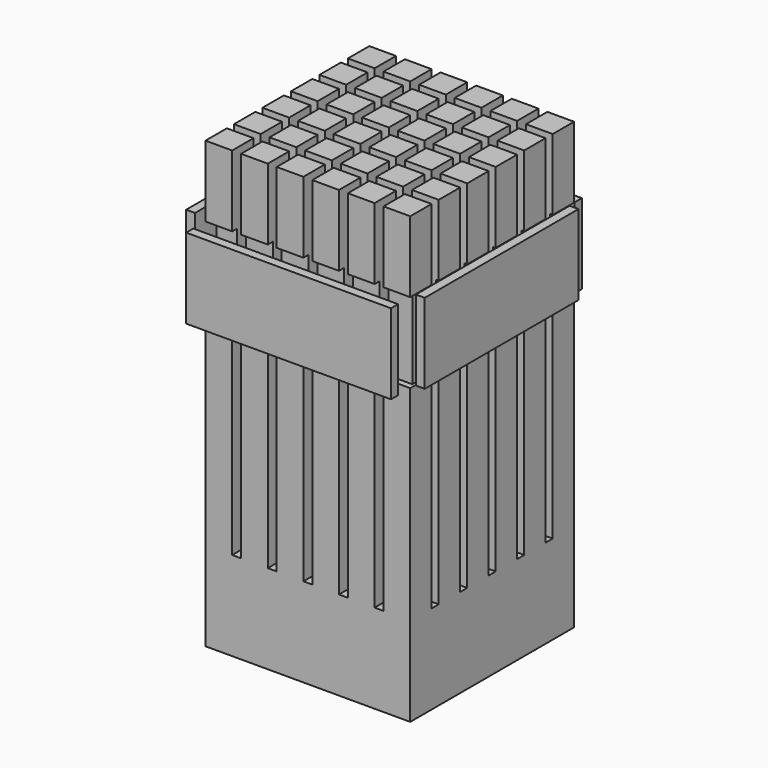
from build123d import *

# Parameters (mm, degrees)
F0_W      = 15
F0_H      = 15
F1_DEPTH  = 50
F2_DEPTH  = 250
F4_START  = 50
F3_W      = 115
F3_H      = 45
F4_DEPTH  = 5
F5_START  = -58
F5_DEPTH  = 7
F6_START  = 62
F6_DEPTH  = 5
F9_START  = -50
F8_W      = 108
F8_H      = 45
F9_DEPTH  = 5
F10_START = 60
F10_DEPTH = 5
F11_START = -62
F11_DEPTH = 5


with BuildPart() as f1:
    # F0 (on Top) → F1 (new body)
    with BuildSketch(Plane.XY):
        Polygon((-33.3552662283, 61.5146738781), (-38.3552662283, 61.5146738781), (-38.3552662283, 46.5146738781), (-53.3552662283, 46.5146738781), (-53.3552662283, 41.5146738781), (-38.3552662283, 41.5146738781), (-38.3552662283, 26.5146738781), (-53.3552662283, 26.5146738781), (-53.3552662283, 21.5146738781), (-38.3552662283, 21.5146738781), (-38.3552662283, 6.5146738781), (-53.3552662283, 6.5146738781), (-53.3552662283, 1.5146738781), (-38.3552662283, 1.5146738781), (-38.3552662283, -13.4853261219), (-53.3552662283, -13.4853261219), (-53.3552662283, -18.4853261219), (-38.3552662283, -18.4853261219), (-38.3552662283, -33.4853261219), (-53.3552662283, -33.4853261219), (-53.3552662283, -38.4853261219), (-38.3552662283, -38.4853261219), (-38.3552662283, -53.4853261219), (-33.3552662283, -53.4853261219), (-33.3552662283, -38.4853261219), (-18.3552662283, -38.4853261219), (-18.3552662283, -53.4853261219), (-13.3552662283, -53.4853261219), (-13.3552662283, -38.4853261219), (1.6447337717, -38.4853261219), (1.6447337717, -53.4853261219), (6.6447337717, -53.4853261219), (6.6447337717, -38.4853261219), (21.6447337717, -38.4853261219), (21.6447337717, -53.4853261219), (26.6447337717, -53.4853261219), (26.6447337717, -38.4853261219), (41.6447337717, -38.4853261219), (41.6447337717, -53.4853261219), (46.6447337717, -53.4853261219), (46.6447337717, -38.4853261219), (61.6447337717, -38.4853261219), (61.6447337717, -33.4853261219), (46.6447337717, -33.4853261219), (46.6447337717, -18.4853261219), (61.6447337717, -18.4853261219), (61.6447337717, -13.4853261219), (46.6447337717, -13.4853261219), (46.6447337717, 1.5146738781), (61.6447337717, 1.5146738781), (61.6447337717, 6.5146738781), (46.6447337717, 6.5146738781), (46.6447337717, 21.5146738781), (61.6447337717, 21.5146738781), (61.6447337717, 26.5146738781), (46.6447337717, 26.5146738781), (46.6447337717, 41.5146738781), (61.6447337717, 41.5146738781), (61.6447337717, 46.5146738781), (46.6447337717, 46.5146738781), (46.6447337717, 61.5146738781), (41.6447337717, 61.5146738781), (41.6447337717, 46.5146738781), (26.6447337717, 46.5146738781), (26.6447337717, 61.5146738781), (21.6447337717, 61.5146738781), (21.6447337717, 46.5146738781), (6.6447337717, 46.5146738781), (6.6447337717, 61.5146738781), (1.6447337717, 61.5146738781), (1.6447337717, 46.5146738781), (-13.3552662283, 46.5146738781), (-13.3552662283, 61.5146738781), (-18.3552662283, 61.5146738781), (-18.3552662283, 46.5146738781), (-33.3552662283, 46.5146738781), align=None)
        with Locations((-25.8552662283, -25.9853261219)):
            Rectangle(F0_W, F0_H, mode=Mode.SUBTRACT)
        with Locations((-5.8552662283, -25.9853261219)):
            Rectangle(F0_W, F0_H, mode=Mode.SUBTRACT)
        with Locations((-25.8552662283, -5.9853261219)):
            Rectangle(F0_W, F0_H, mode=Mode.SUBTRACT)
        with Locations((-5.8552662283, -5.9853261219)):
            Rectangle(F0_W, F0_H, mode=Mode.SUBTRACT)
        with Locations((14.1447337717, -25.9853261219)):
            Rectangle(F0_W, F0_H, mode=Mode.SUBTRACT)
        with Locations((34.1447337717, -25.9853261219)):
            Rectangle(F0_W, F0_H, mode=Mode.SUBTRACT)
        with Locations((14.1447337717, -5.9853261219)):
            Rectangle(F0_W, F0_H, mode=Mode.SUBTRACT)
        with Locations((34.1447337717, -5.9853261219)):
            Rectangle(F0_W, F0_H, mode=Mode.SUBTRACT)
        with Locations((-25.8552662283, 14.0146738781)):
            Rectangle(F0_W, F0_H, mode=Mode.SUBTRACT)
        with Locations((-5.8552662283, 14.0146738781)):
            Rectangle(F0_W, F0_H, mode=Mode.SUBTRACT)
        with Locations((-25.8552662283, 34.0146738781)):
            Rectangle(F0_W, F0_H, mode=Mode.SUBTRACT)
        with Locations((-5.8552662283, 34.0146738781)):
            Rectangle(F0_W, F0_H, mode=Mode.SUBTRACT)
        with Locations((14.1447337717, 14.0146738781)):
            Rectangle(F0_W, F0_H, mode=Mode.SUBTRACT)
        with Locations((34.1447337717, 14.0146738781)):
            Rectangle(F0_W, F0_H, mode=Mode.SUBTRACT)
        with Locations((14.1447337717, 34.0146738781)):
            Rectangle(F0_W, F0_H, mode=Mode.SUBTRACT)
        with Locations((34.1447337717, 34.0146738781)):
            Rectangle(F0_W, F0_H, mode=Mode.SUBTRACT)
        with Locations((14.1447337717, 34.0146738781)):
            Rectangle(F0_W, F0_H)
        with Locations((54.1447337717, -45.9853261219)):
            Rectangle(F0_W, F0_H)
        with Locations((34.1447337717, 14.0146738781)):
            Rectangle(F0_W, F0_H)
        with Locations((14.1447337717, 14.0146738781)):
            Rectangle(F0_W, F0_H)
        with Locations((34.1447337717, -45.9853261219)):
            Rectangle(F0_W, F0_H)
        with Locations((34.1447337717, -5.9853261219)):
            Rectangle(F0_W, F0_H)
        with Locations((14.1447337717, -5.9853261219)):
            Rectangle(F0_W, F0_H)
        with Locations((54.1447337717, 54.0146738781)):
            Rectangle(F0_W, F0_H)
        with Locations((34.1447337717, -25.9853261219)):
            Rectangle(F0_W, F0_H)
        with Locations((14.1447337717, -25.9853261219)):
            Rectangle(F0_W, F0_H)
        with Locations((-5.8552662283, -5.9853261219)):
            Rectangle(F0_W, F0_H)
        with Locations((-5.8552662283, 34.0146738781)):
            Rectangle(F0_W, F0_H)
        with Locations((-5.8552662283, -25.9853261219)):
            Rectangle(F0_W, F0_H)
        with Locations((-5.8552662283, 14.0146738781)):
            Rectangle(F0_W, F0_H)
        with Locations((54.1447337717, 14.0146738781)):
            Rectangle(F0_W, F0_H)
        with Locations((-45.8552662283, 54.0146738781)):
            Rectangle(F0_W, F0_H)
        with Locations((-45.8552662283, 34.0146738781)):
            Rectangle(F0_W, F0_H)
        with Locations((-45.8552662283, 14.0146738781)):
            Rectangle(F0_W, F0_H)
        with Locations((-45.8552662283, -5.9853261219)):
            Rectangle(F0_W, F0_H)
        with Locations((-45.8552662283, -25.9853261219)):
            Rectangle(F0_W, F0_H)
        with Locations((-45.8552662283, -45.9853261219)):
            Rectangle(F0_W, F0_H)
        with Locations((-25.8552662283, 54.0146738781)):
            Rectangle(F0_W, F0_H)
        with Locations((-25.8552662283, 34.0146738781)):
            Rectangle(F0_W, F0_H)
        with Locations((-25.8552662283, 14.0146738781)):
            Rectangle(F0_W, F0_H)
        with Locations((-25.8552662283, -5.9853261219)):
            Rectangle(F0_W, F0_H)
        with Locations((-25.8552662283, -25.9853261219)):
            Rectangle(F0_W, F0_H)
        with Locations((-25.8552662283, -45.9853261219)):
            Rectangle(F0_W, F0_H)
        with Locations((-5.8552662283, 54.0146738781)):
            Rectangle(F0_W, F0_H)
        with Locations((14.1447337717, -45.9853261219)):
            Rectangle(F0_W, F0_H)
        with Locations((-5.8552662283, -45.9853261219)):
            Rectangle(F0_W, F0_H)
        with Locations((54.1447337717, -5.9853261219)):
            Rectangle(F0_W, F0_H)
        with Locations((34.1447337717, 54.0146738781)):
            Rectangle(F0_W, F0_H)
        with Locations((14.1447337717, 54.0146738781)):
            Rectangle(F0_W, F0_H)
        with Locations((54.1447337717, -25.9853261219)):
            Rectangle(F0_W, F0_H)
        with Locations((54.1447337717, 34.0146738781)):
            Rectangle(F0_W, F0_H)
        with Locations((34.1447337717, 34.0146738781)):
            Rectangle(F0_W, F0_H)
    extrude(amount=F1_DEPTH)

    # F0 (on Top) → F2 (join)
    with BuildSketch(Plane.XY):
        with Locations((-45.8552662283, 54.0146738781)):
            Rectangle(F0_W, F0_H)
        with Locations((-45.8552662283, 34.0146738781)):
            Rectangle(F0_W, F0_H)
        with Locations((-45.8552662283, 14.0146738781)):
            Rectangle(F0_W, F0_H)
        with Locations((-25.8552662283, 34.0146738781)):
            Rectangle(F0_W, F0_H)
        with Locations((-25.8552662283, 14.0146738781)):
            Rectangle(F0_W, F0_H)
        with Locations((-5.8552662283, 14.0146738781)):
            Rectangle(F0_W, F0_H)
        with Locations((-5.8552662283, 34.0146738781)):
            Rectangle(F0_W, F0_H)
        with Locations((-5.8552662283, 54.0146738781)):
            Rectangle(F0_W, F0_H)
        with Locations((14.1447337717, 54.0146738781)):
            Rectangle(F0_W, F0_H)
        with Locations((14.1447337717, 34.0146738781)):
            Rectangle(F0_W, F0_H)
        with Locations((14.1447337717, 14.0146738781)):
            Rectangle(F0_W, F0_H)
        with Locations((14.1447337717, -5.9853261219)):
            Rectangle(F0_W, F0_H)
        with Locations((-5.8552662283, -5.9853261219)):
            Rectangle(F0_W, F0_H)
        with Locations((-5.8552662283, -25.9853261219)):
            Rectangle(F0_W, F0_H)
        with Locations((14.1447337717, -25.9853261219)):
            Rectangle(F0_W, F0_H)
        with Locations((14.1447337717, -45.9853261219)):
            Rectangle(F0_W, F0_H)
        with Locations((-5.8552662283, -45.9853261219)):
            Rectangle(F0_W, F0_H)
        with Locations((-25.8552662283, -45.9853261219)):
            Rectangle(F0_W, F0_H)
        with Locations((-25.8552662283, -25.9853261219)):
            Rectangle(F0_W, F0_H)
        with Locations((-25.8552662283, -5.9853261219)):
            Rectangle(F0_W, F0_H)
        with Locations((-45.8552662283, -5.9853261219)):
            Rectangle(F0_W, F0_H)
        with Locations((-45.8552662283, -25.9853261219)):
            Rectangle(F0_W, F0_H)
        with Locations((-45.8552662283, -45.9853261219)):
            Rectangle(F0_W, F0_H)
        with Locations((-25.8552662283, 54.0146738781)):
            Rectangle(F0_W, F0_H)
        with Locations((34.1447337717, 54.0146738781)):
            Rectangle(F0_W, F0_H)
        with Locations((54.1447337717, 54.0146738781)):
            Rectangle(F0_W, F0_H)
        with Locations((34.1447337717, 34.0146738781)):
            Rectangle(F0_W, F0_H)
        with Locations((34.1447337717, 14.0146738781)):
            Rectangle(F0_W, F0_H)
        with Locations((54.1447337717, 14.0146738781)):
            Rectangle(F0_W, F0_H)
        with Locations((54.1447337717, 34.0146738781)):
            Rectangle(F0_W, F0_H)
        with Locations((34.1447337717, -5.9853261219)):
            Rectangle(F0_W, F0_H)
        with Locations((54.1447337717, -25.9853261219)):
            Rectangle(F0_W, F0_H)
        with Locations((34.1447337717, -45.9853261219)):
            Rectangle(F0_W, F0_H)
        with Locations((34.1447337717, -25.9853261219)):
            Rectangle(F0_W, F0_H)
        with Locations((54.1447337717, -5.9853261219)):
            Rectangle(F0_W, F0_H)
        with Locations((54.1447337717, -45.9853261219)):
            Rectangle(F0_W, F0_H)
    extrude(amount=F2_DEPTH)

    # F3 (on Front) → F4 (cut)
    with BuildSketch(Plane.XZ.offset(F4_START)):
        with Locations((4.1447337717, 187.5)):
            Rectangle(F3_W, F3_H)
    extrude(amount=F4_DEPTH, mode=Mode.SUBTRACT)

    # F3 (on Front) → F5 (cut)
    with BuildSketch(Plane.XZ.offset(F5_START)):
        with Locations((4.1447337717, 187.5)):
            Rectangle(F3_W, F3_H)
    extrude(amount=-F5_DEPTH, mode=Mode.SUBTRACT)

    # F8 (on Right) → F9 (cut)
    with BuildSketch(Plane.YZ.offset(F9_START)):
        with Locations((4, 187.5)):
            Rectangle(F8_W, F8_H)
    extrude(amount=-F9_DEPTH, mode=Mode.SUBTRACT)

    # F8 (on Right) → F10 (cut)
    with BuildSketch(Plane.YZ.offset(F10_START)):
        with Locations((4, 187.5)):
            Rectangle(F8_W, F8_H)
    extrude(amount=F10_DEPTH, mode=Mode.SUBTRACT)


with BuildPart() as f6:
    # F3 (on Front) → F6 (new body)
    with BuildSketch(Plane.XZ.offset(F6_START)):
        with Locations((4.1447337717, 187.5)):
            Rectangle(F3_W, F3_H)
    extrude(amount=F6_DEPTH)


with BuildPart() as f7_1:
    # F7: instance of F6
    add(f6.part.mirror(Plane.XZ))


with BuildPart() as f11:
    # F8 (on Right) → F11 (new body)
    with BuildSketch(Plane.YZ.offset(F11_START)):
        with Locations((4, 187.5)):
            Rectangle(F8_W, F8_H)
    extrude(amount=-F11_DEPTH)


with BuildPart() as f12_1:
    # F12: instance of F11
    add(f11.part.mirror(Plane.YZ))


solid = Compound([f1.part, f6.part, f7_1.part, f11.part, f12_1.part])
